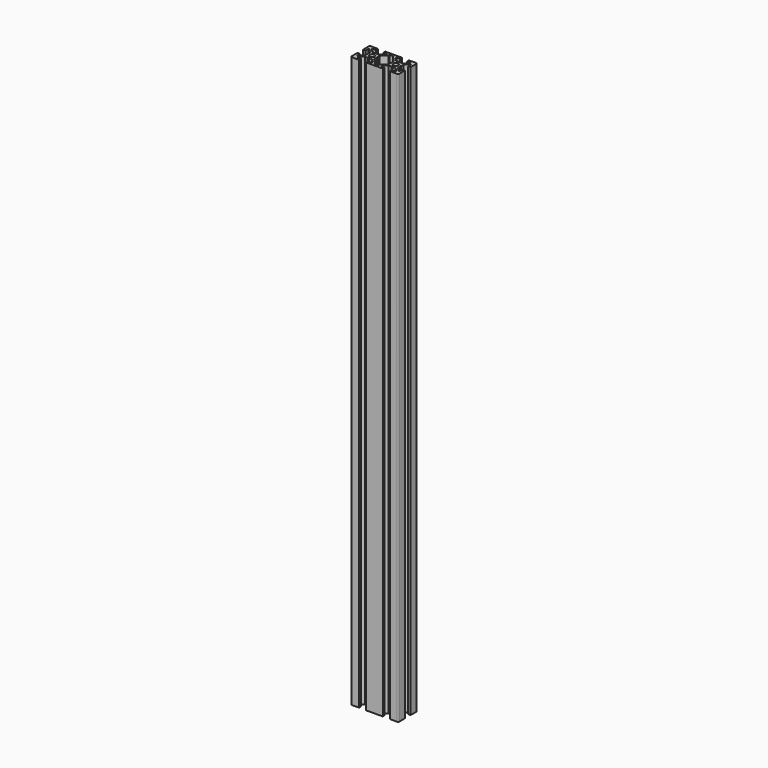
from build123d import *

# Parameters (mm, degrees)
F0_R     = 2.1
F1_DEPTH = 480


with BuildPart() as f1:
    # F0 (on Top) → F1 (new body)
    with BuildSketch(Plane.XY):
        with BuildLine():
            Line((14.135135, -0.519615), (13.835135, 0))
            Line((13.835135, 0), (14.135135, 0.519615))
            Line((14.135135, 0.519615), (14.135135, 2.93934))
            Line((14.135135, 2.93934), (17.195795, 6))
            Line((17.195795, 6), (18.135135, 6))
            Line((18.135135, 6), (18.135135, 3))
            Line((18.135135, 3), (20.135135, 3))
            Line((20.135135, 3), (20.135135, 9))
            ThreePointArc((20.135135, 9), (19.842242, 9.707107), (19.135135, 10))
            Line((19.135135, 10), (13.135135, 10))
            Line((13.135135, 10), (13.135135, 8))
            Line((13.135135, 8), (16.135135, 8))
            Line((16.135135, 8), (16.135135, 7.06066))
            Line((16.135135, 7.06066), (13.074475, 4))
            Line((13.074475, 4), (10.65475, 4))
            Line((10.65475, 4), (10.135135, 3.7))
            Line((10.135135, 3.7), (9.61552, 4))
            Line((9.61552, 4), (7.195795, 4))
            Line((7.195795, 4), (4.135135, 7.06066))
            Line((4.135135, 7.06066), (4.135135, 8))
            Line((4.135135, 8), (7.135135, 8))
            Line((7.135135, 8), (7.135135, 10))
            Line((7.135135, 10), (-6.864865, 10))
            Line((-6.864865, 10), (-6.864865, 8))
            Line((-6.864865, 8), (-3.864865, 8))
            Line((-3.864865, 8), (-3.864865, 7.06066))
            Line((-3.864865, 7.06066), (-6.925525, 4))
            Line((-6.925525, 4), (-9.34525, 4))
            Line((-9.34525, 4), (-9.864865, 3.7))
            Line((-9.864865, 3.7), (-10.38448, 4))
            Line((-10.38448, 4), (-12.804205, 4))
            Line((-12.804205, 4), (-15.864865, 7.06066))
            Line((-15.864865, 7.06066), (-15.864865, 8))
            Line((-15.864865, 8), (-12.864865, 8))
            Line((-12.864865, 8), (-12.864865, 10))
            Line((-12.864865, 10), (-18.864865, 10))
            ThreePointArc((-18.864865, 10), (-19.571972, 9.707107), (-19.864865, 9))
            Line((-19.864865, 9), (-19.864865, 3))
            Line((-19.864865, 3), (-17.864865, 3))
            Line((-17.864865, 3), (-17.864865, 6))
            Line((-17.864865, 6), (-16.925525, 6))
            Line((-16.925525, 6), (-13.864865, 2.93934))
            Line((-13.864865, 2.93934), (-13.864865, 0.519615))
            Line((-13.864865, 0.519615), (-13.564865, 0))
            Line((-13.564865, 0), (-13.864865, -0.519615))
            Line((-13.864865, -0.519615), (-13.864865, -2.93934))
            Line((-13.864865, -2.93934), (-16.925525, -6))
            Line((-16.925525, -6), (-17.864865, -6))
            Line((-17.864865, -6), (-17.864865, -3))
            Line((-17.864865, -3), (-19.864865, -3))
            Line((-19.864865, -3), (-19.864865, -9))
            ThreePointArc((-19.864865, -9), (-19.571972, -9.707107), (-18.864865, -10))
            Line((-18.864865, -10), (-12.864865, -10))
            Line((-12.864865, -10), (-12.864865, -8))
            Line((-12.864865, -8), (-15.864865, -8))
            Line((-15.864865, -8), (-15.864865, -7.06066))
            Line((-15.864865, -7.06066), (-12.804205, -4))
            Line((-12.804205, -4), (-10.38448, -4))
            Line((-10.38448, -4), (-9.864865, -3.7))
            Line((-9.864865, -3.7), (-9.34525, -4))
            Line((-9.34525, -4), (-6.925525, -4))
            Line((-6.925525, -4), (-3.864865, -7.06066))
            Line((-3.864865, -7.06066), (-3.864865, -8))
            Line((-3.864865, -8), (-6.864865, -8))
            Line((-6.864865, -8), (-6.864865, -10))
            Line((-6.864865, -10), (7.135135, -10))
            Line((7.135135, -10), (7.135135, -8))
            Line((7.135135, -8), (4.135135, -8))
            Line((4.135135, -8), (4.135135, -7.06066))
            Line((4.135135, -7.06066), (7.195795, -4))
            Line((7.195795, -4), (9.61552, -4))
            Line((9.61552, -4), (10.135135, -3.7))
            Line((10.135135, -3.7), (10.65475, -4))
            Line((10.65475, -4), (13.074475, -4))
            Line((13.074475, -4), (16.135135, -7.06066))
            Line((16.135135, -7.06066), (16.135135, -8))
            Line((16.135135, -8), (13.135135, -8))
            Line((13.135135, -8), (13.135135, -10))
            Line((13.135135, -10), (19.135135, -10))
            ThreePointArc((19.135135, -10), (19.842242, -9.707107), (20.135135, -9))
            Line((20.135135, -9), (20.135135, -3))
            Line((20.135135, -3), (18.135135, -3))
            Line((18.135135, -3), (18.135135, -6))
            Line((18.135135, -6), (17.195795, -6))
            Line((17.195795, -6), (14.135135, -2.93934))
            Line((14.135135, -2.93934), (14.135135, -0.519615))
        make_face()
        with Locations((-9.864865, 0)):
            Circle(F0_R, mode=Mode.SUBTRACT)
        Polygon((6.435135, 0), (6.135135, -0.519615), (6.135135, -2.93934), (3.074475, -6), (2.013815, -7.06066), (2.013815, -8), (-1.743545, -8), (-1.743545, -7.06066), (-2.804205, -6), (-5.864865, -2.93934), (-5.864865, -0.519615), (-6.164865, 0), (-5.864865, 0.519615), (-5.864865, 2.93934), (-2.804205, 6), (-1.743545, 7.06066), (-1.743545, 8), (2.013815, 8), (2.013815, 7.06066), (3.074475, 6), (6.135135, 2.93934), (6.135135, 0.519615), align=None, mode=Mode.SUBTRACT)
        with Locations((10.135135, 0)):
            Circle(F0_R, mode=Mode.SUBTRACT)
    extrude(amount=F1_DEPTH)


solid = f1.part
